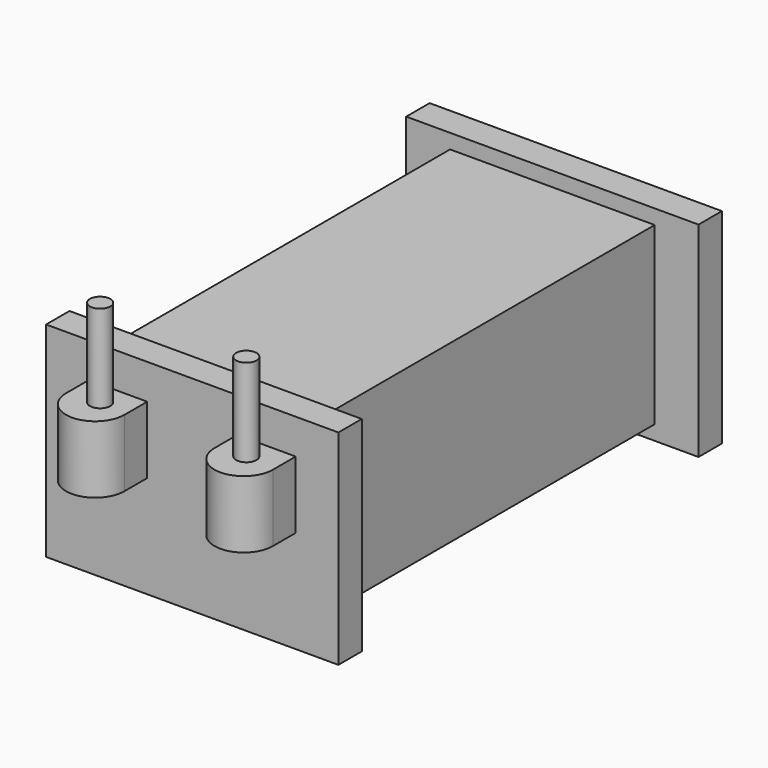
from build123d import *

# Parameters (mm, degrees)
SKETCH269_W  = 7
SKETCH269_H  = 14.4
PAD186_DEPTH = 3
SKETCH275_W  = 10
SKETCH275_H  = 7
PAD196_DEPTH = 1
SKETCH272_W  = 10
SKETCH272_H  = 7
PAD189_DEPTH = 1
PAD185_DEPTH = 2.3
SKETCH270_R  = 0.35
PAD197_DEPTH = 3


with BuildPart() as part:
    # Sketch269 → Pad186 (new body, symmetric)
    with BuildSketch(Plane.XY):
        with Locations((0, -0.37169)):
            Rectangle(SKETCH269_W, SKETCH269_H)
    extrude(amount=PAD186_DEPTH, both=True)

    # Sketch275 (on Face3 of Pad186) → Pad196 (join)
    with BuildSketch(Plane.XZ.offset(7.57169)):
        Rectangle(SKETCH275_W, SKETCH275_H)
    extrude(amount=PAD196_DEPTH)

    # Sketch272 (on Face11 of Pad196) → Pad189 (join)
    with BuildSketch(Plane(origin=(0, 6.82831, 0), x_dir=(-1, 0, 0), z_dir=(0, 1, 0))):
        Rectangle(SKETCH272_W, SKETCH272_H)
    extrude(amount=PAD189_DEPTH)

    # Sketch279 → Pad185 (join)
    with BuildSketch(Plane.XY):
        with BuildLine():
            ThreePointArc((-3.539731, -9.545275), (-2.539731, -10.545275), (-1.539731, -9.545275))
            Line((-1.539731, -8.57169), (-1.539731, -9.545275))
            Line((-3.539731, -8.57169), (-1.539731, -8.57169))
            Line((-3.539731, -8.57169), (-3.539731, -9.545275))
        make_face()
        with BuildLine():
            ThreePointArc((1.539731, -9.545275), (2.539731, -10.545275), (3.539731, -9.545275))
            Line((3.539731, -8.57169), (3.539731, -9.545275))
            Line((3.539731, -8.57169), (1.539731, -8.57169))
            Line((1.539731, -8.57169), (1.539731, -9.545275))
        make_face()
    extrude(amount=PAD185_DEPTH)

    # Sketch270 (on Face19 of Pad185) → Pad197 (join)
    with BuildSketch(Plane.XY.offset(2.3)):
        with Locations((-2.5, -9.384607)):
            Circle(SKETCH270_R)
        with Locations((2.5, -9.384607)):
            Circle(SKETCH270_R)
    extrude(amount=PAD197_DEPTH)


with BuildPart() as part_1:
    # Body060 placement: moved
    add(part.part.moved(Location((3.5, -13, 0))))


solid = part_1.part
